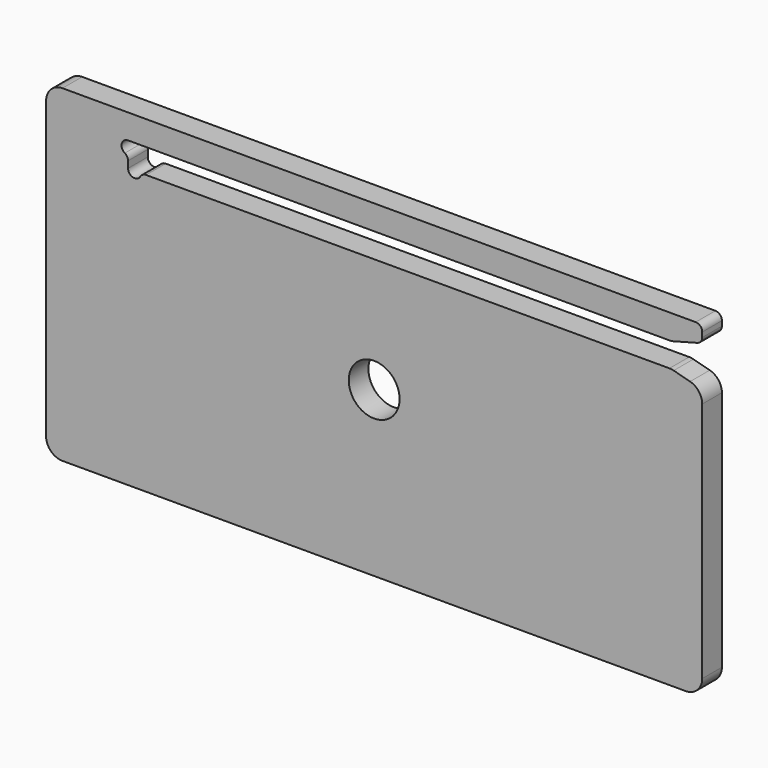
from build123d import *

# Parameters (mm, degrees)
SKETCH015_R  = 1.55
PAD012_DEPTH = 0.75
FILLET016_R  = 0.4
FILLET017_R  = 1


with BuildPart() as part:
    # Sketch015 → Pad012 (new body, symmetric)
    with BuildSketch(Plane.XZ):
        with BuildLine():
            Line((-20, 10), (-20, -7))
            Line((-20, -8.5), (-20, -7))
            Line((-20, -8.5), (-20, -10))
            Line((-20, -10), (20, -10))
            Line((20, -10), (20, 6.5))
            Line((18.133975, 7), (20, 6.5))
            Line((18.133975, 7), (-14.2, 7))
            ThreePointArc((-15, 7), (-14.6, 6.6), (-14.2, 7))
            Line((-15, 7), (-15, 7.7))
            ThreePointArc((-15, 8.5), (-15.4, 8.1), (-15, 7.7))
            Line((-15, 8.5), (18.133975, 8.5))
            Line((18.133975, 8.5), (20, 9))
            Line((20, 9), (20, 10))
            Line((20, 10), (-20, 10))
        make_face()
        Circle(SKETCH015_R, mode=Mode.SUBTRACT)
    extrude(amount=PAD012_DEPTH, both=True)

    # Fillet016
    fillet016_edges = [part.edges().sort_by_distance(p)[0] for p in [
        (-15, 0, 7.7),
        (-14.2, 0, 7),
        (20, 0, 9),
        (20, 0, 10),
    ]]
    fillet(fillet016_edges, radius=FILLET016_R)

    # Fillet017
    fillet017_edges = [part.edges().sort_by_distance(p)[0] for p in [
        (-20, 0, 10),
        (-20, 0, -10),
        (20, 0, -10),
        (20, 0, 6.5),
        (18.133975, 0, 7),
        (18.133975, 0, 8.5),
    ]]
    fillet(fillet017_edges, radius=FILLET017_R)


solid = part.part
